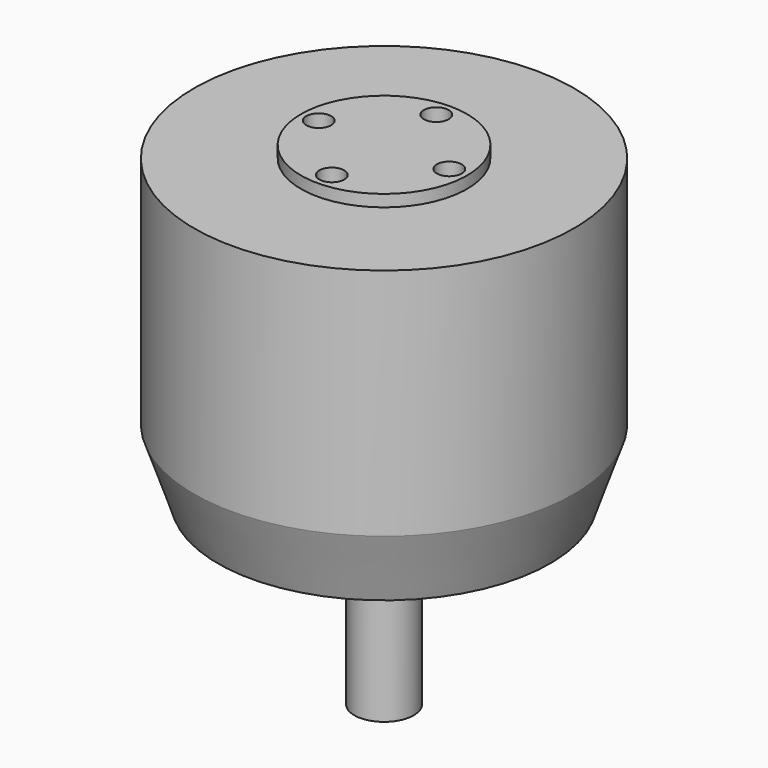
from build123d import *

# Parameters (mm, degrees)
SKETCH_R                = 2.1
POCKET_DEPTH            = 5
SKETCH002_R             = 2.1
POCKET001_DEPTH         = 7
BODY001_ROLL_ANGLE      = 90
BODY001_PLACEMENT_ANGLE = 90


with BuildPart() as part:
    # Sketch001 → Revolution001 (revolve)
    with BuildSketch(Plane.XY):
        Polygon((28, 0), (32, 11.6), (32, 51), (14, 51), (14, 53), (0, 53), (0, 0), (0, -30), (5, -30), (5, 0), align=None)
    revolve(axis=Axis((0, 0, 0), (0, 1, 0)))

    # Sketch → Pocket (cut)
    with BuildSketch(Plane.XZ):
        with Locations((-15.556349, 15.556349)):
            Circle(SKETCH_R)
        with Locations((15.556349, 15.556349)):
            Circle(SKETCH_R)
        with Locations((15.556349, -15.556349)):
            Circle(SKETCH_R)
        with Locations((-15.556349, -15.556349)):
            Circle(SKETCH_R)
    extrude(amount=-POCKET_DEPTH, mode=Mode.SUBTRACT)

    # Sketch002 (on Face16 of Pocket) → Pocket001 (cut)
    with BuildSketch(Plane(origin=(0, 53, 0), x_dir=(-1, 0, 0), z_dir=(0, 1, 0))):
        with Locations((-11, 0)):
            Circle(SKETCH002_R)
        with Locations((0, -11)):
            Circle(SKETCH002_R)
        with Locations((11, 0)):
            Circle(SKETCH002_R)
        with Locations((0, 11)):
            Circle(SKETCH002_R)
    extrude(amount=-POCKET001_DEPTH, mode=Mode.SUBTRACT)


with BuildPart() as part_1:
    # Body001 roll: moved
    add(part.part.rotate(Axis((0, 0, 0), (1, 0, 0)), BODY001_ROLL_ANGLE))


with BuildPart() as part_2:
    # Body001 placement: moved
    add(part_1.part.moved(Location((0, 0, -36.75))).rotate(Axis((0, 0, -36.75), (0, 0, 1)), BODY001_PLACEMENT_ANGLE))


solid = part_2.part
